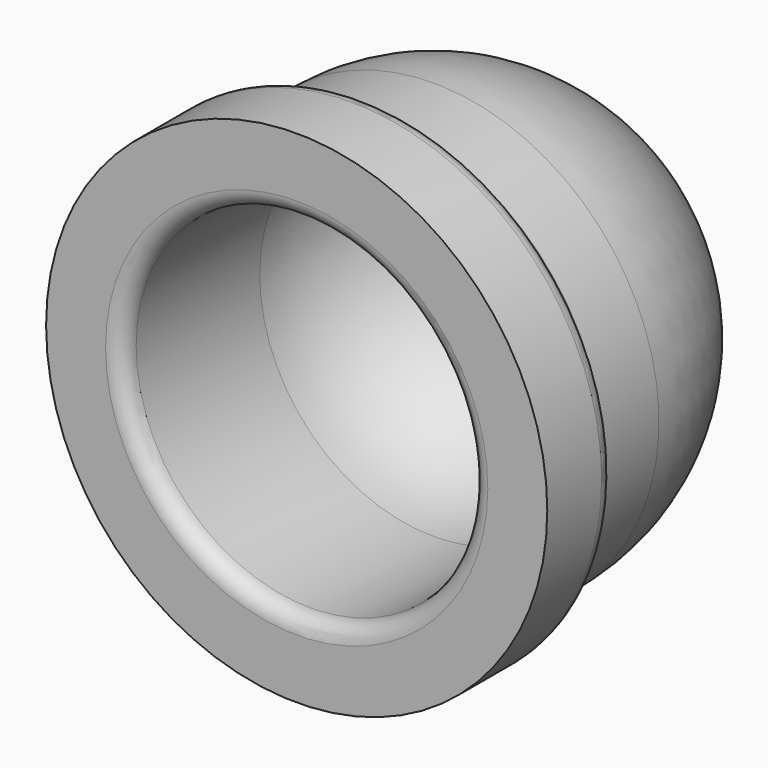
from build123d import *

# Parameters (mm, degrees)
F2_R = 1
F3_R = 1
F4_R = 1


with BuildPart() as f1:
    # F0 (on Top) → F1 (revolve)
    with BuildSketch(Plane.XY):
        with BuildLine():
            ThreePointArc((-10.25, 10.092882), (-7.247845, 17.340726), (0, 20.342882))
            Line((0, 20.342882), (0, 23.342882))
            ThreePointArc((0, 23.342882), (-9.369165, 19.462047), (-13.25, 10.092882))
            Line((-13.25, 10.092882), (-13.25, 5))
            Line((-13.25, 5), (-14.75, 5))
            Line((-14.75, 5), (-14.75, 0))
            Line((-14.75, 0), (-13.25, 0))
            Line((-13.25, 0), (-10.25, 0))
            Line((-10.25, 0), (-10.25, 10.092882))
        make_face()
    revolve(axis=Axis((0, 12.932193, 0), (0, -1, 0)))

    # F2
    f2_edges = [f1.edges().sort_by_distance(p)[0] for p in [
        (14.75, 5, 0),
    ]]
    fillet(f2_edges, radius=F2_R)

    # F3
    f3_edges = [f1.edges().sort_by_distance(p)[0] for p in [
        (10.25, 0, 0),
    ]]
    fillet(f3_edges, radius=F3_R)

    # F4
    f4_edges = [f1.edges().sort_by_distance(p)[0] for p in [
        (13.25, 5, 0),
    ]]
    fillet(f4_edges, radius=F4_R)


solid = f1.part
